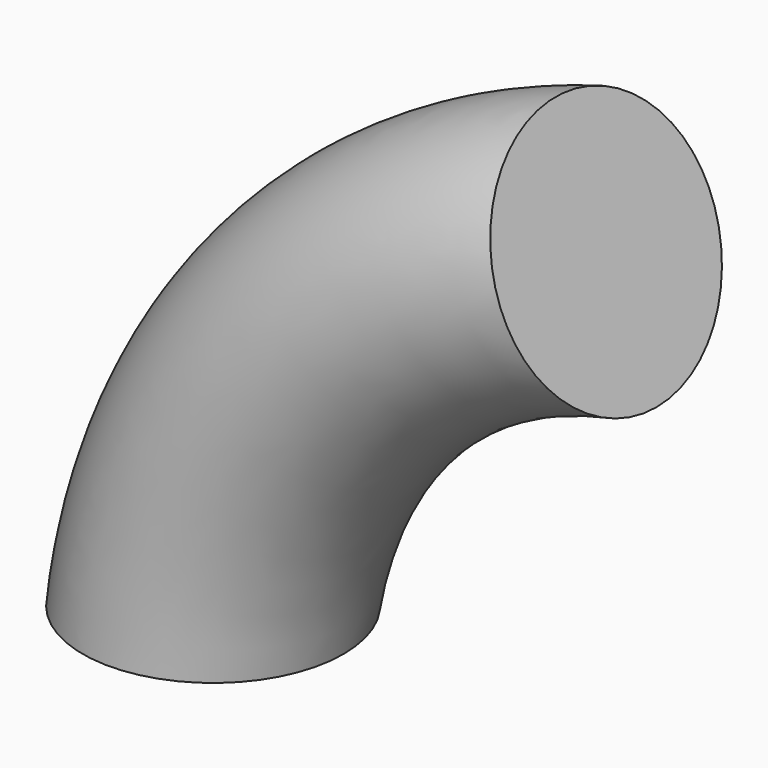
from build123d import *

# Parameters (mm, degrees)
F1_R = 17.002477


with BuildPart() as f2:
    # F2: sweep along a path in F0
    with BuildLine(Plane.XZ) as f2_path:
        ThreePointArc((51.229425, 57.273347), (16.958028, 36.379838), (0, 0))
    # F1 (on Top) → F2 (sweep)
    with BuildSketch(Plane.XY):
        Circle(F1_R)
    sweep(path=f2_path.line)


solid = f2.part
